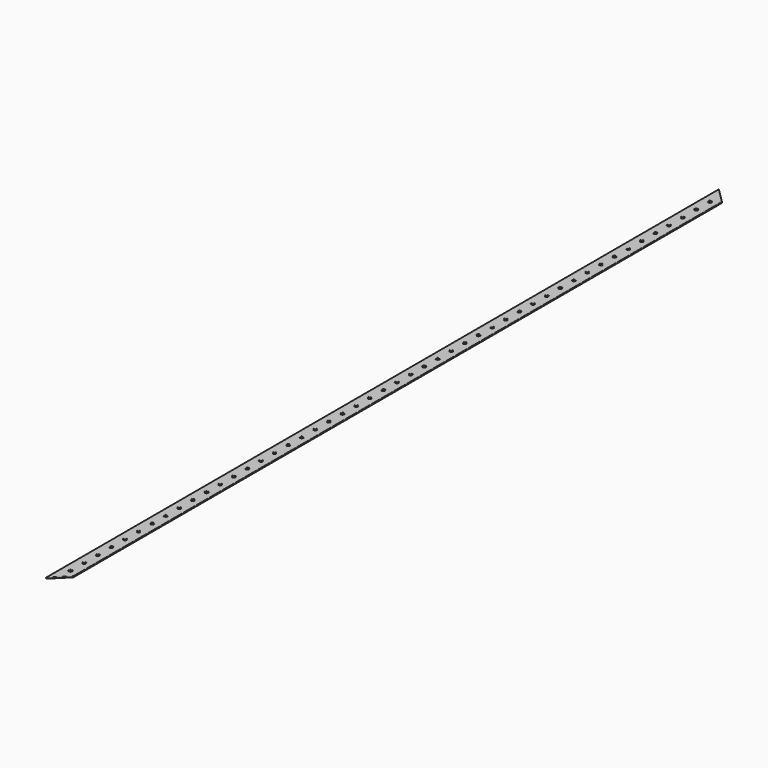
from build123d import *

# Parameters (mm, degrees)
PAD001_DEPTH            = 500
POCKET002_DEPTH         = 0.601
SKETCH010_R             = 1.05
POCKET003_DEPTH         = 0.601
BODY001_PLACEMENT_ANGLE = 90


with BuildPart() as part:
    # Sketch007 → Pad001 (new body)
    with BuildSketch(Plane.XZ.offset(-0.3)):
        Polygon((0.6, 9), (0.6, 0), (0.5, 0), (0.5, 8.9), (0.1, 8.9), (0.1, 0), (0, 0), (0, 9), align=None)
    extrude(amount=PAD001_DEPTH)

    # Sketch008 → Pocket002 (cut, through all)
    with BuildSketch(Plane.YZ):
        Polygon((-499.700007, 9.2), (-499.700007, -0.3), (-490.200007, -0.3), align=None)
        Polygon((0.3, -0.3), (-9.2, -0.3), (0.3, 9.2), align=None)
    extrude(amount=POCKET002_DEPTH, mode=Mode.SUBTRACT)

    # Sketch010 → Pocket003 (cut, through all)
    with BuildSketch(Plane(origin=(0, 0.3, -0.3), x_dir=(0, 0, -1), z_dir=(1, 0, 0))):
        with Locations((-4.75, -487.35)):
            Circle(SKETCH010_R)
        with Locations((-4.75, -477.25)):
            Circle(SKETCH010_R)
        with Locations((-4.75, -457.05)):
            Circle(SKETCH010_R)
        with Locations((-4.75, -467.15)):
            Circle(SKETCH010_R)
        with Locations((-4.75, -416.65)):
            Circle(SKETCH010_R)
        with Locations((-4.75, -426.75)):
            Circle(SKETCH010_R)
        with Locations((-4.75, -436.85)):
            Circle(SKETCH010_R)
        with Locations((-4.75, -446.95)):
            Circle(SKETCH010_R)
        with Locations((-4.75, -335.85)):
            Circle(SKETCH010_R)
        with Locations((-4.75, -345.95)):
            Circle(SKETCH010_R)
        with Locations((-4.75, -356.05)):
            Circle(SKETCH010_R)
        with Locations((-4.75, -366.15)):
            Circle(SKETCH010_R)
        with Locations((-4.75, -376.25)):
            Circle(SKETCH010_R)
        with Locations((-4.75, -386.35)):
            Circle(SKETCH010_R)
        with Locations((-4.75, -396.45)):
            Circle(SKETCH010_R)
        with Locations((-4.75, -406.55)):
            Circle(SKETCH010_R)
        with Locations((-4.75, -174.25)):
            Circle(SKETCH010_R)
        with Locations((-4.75, -184.35)):
            Circle(SKETCH010_R)
        with Locations((-4.75, -194.45)):
            Circle(SKETCH010_R)
        with Locations((-4.75, -204.55)):
            Circle(SKETCH010_R)
        with Locations((-4.75, -214.65)):
            Circle(SKETCH010_R)
        with Locations((-4.75, -224.75)):
            Circle(SKETCH010_R)
        with Locations((-4.75, -234.85)):
            Circle(SKETCH010_R)
        with Locations((-4.75, -244.95)):
            Circle(SKETCH010_R)
        with Locations((-4.75, -255.05)):
            Circle(SKETCH010_R)
        with Locations((-4.75, -265.15)):
            Circle(SKETCH010_R)
        with Locations((-4.75, -275.25)):
            Circle(SKETCH010_R)
        with Locations((-4.75, -285.35)):
            Circle(SKETCH010_R)
        with Locations((-4.75, -295.45)):
            Circle(SKETCH010_R)
        with Locations((-4.75, -305.55)):
            Circle(SKETCH010_R)
        with Locations((-4.75, -315.65)):
            Circle(SKETCH010_R)
        with Locations((-4.75, -325.75)):
            Circle(SKETCH010_R)
        with Locations((-4.75, -63.15)):
            Circle(SKETCH010_R)
        with Locations((-4.75, -73.25)):
            Circle(SKETCH010_R)
        with Locations((-4.75, -83.35)):
            Circle(SKETCH010_R)
        with Locations((-4.75, -93.45)):
            Circle(SKETCH010_R)
        with Locations((-4.75, -103.55)):
            Circle(SKETCH010_R)
        with Locations((-4.75, -113.65)):
            Circle(SKETCH010_R)
        with Locations((-4.75, -123.75)):
            Circle(SKETCH010_R)
        with Locations((-4.75, -133.85)):
            Circle(SKETCH010_R)
        with Locations((-4.75, -143.95)):
            Circle(SKETCH010_R)
        with Locations((-4.75, -154.05)):
            Circle(SKETCH010_R)
        with Locations((-4.75, -164.15)):
            Circle(SKETCH010_R)
        with Locations((-4.75, -12.65)):
            Circle(SKETCH010_R)
        with Locations((-4.75, -22.75)):
            Circle(SKETCH010_R)
        with Locations((-4.75, -32.85)):
            Circle(SKETCH010_R)
        with Locations((-4.75, -42.95)):
            Circle(SKETCH010_R)
        with Locations((-4.75, -53.05)):
            Circle(SKETCH010_R)
    extrude(amount=POCKET003_DEPTH, mode=Mode.SUBTRACT)


with BuildPart() as part_1:
    # Body001 placement: moved
    add(part.part.moved(Location((-0.3, -0.3, 0.2))).rotate(Axis((-0.3, -0.3, 0.2), (0, -1, 0)), BODY001_PLACEMENT_ANGLE))


solid = part_1.part
